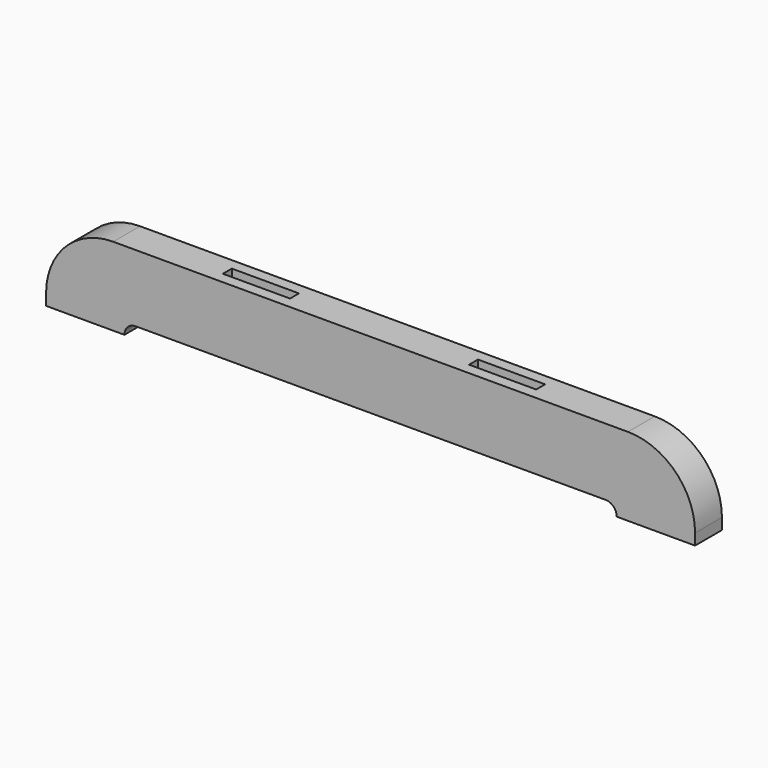
from build123d import *

# Parameters (mm, degrees)
F1_DEPTH = 38.1
F2_W     = 76.2
F2_H     = 12.7
F3_DEPTH = 50.8


with BuildPart() as f1:
    # F0 (on Front) → F1 (new body)
    with BuildSketch(Plane.XZ):
        with BuildLine():
            Line((-368.3, 12.7), (-368.3, 0))
            Line((-368.3, 0), (-279.4, 0))
            ThreePointArc((-279.4, 0), (-275.680256, 8.980256), (-266.7, 12.7))
            Line((-266.7, 12.7), (266.7, 12.7))
            ThreePointArc((266.7, 12.7), (275.680256, 8.980256), (279.4, 0))
            Line((279.4, 0), (368.3, 0))
            Line((368.3, 0), (368.3, 12.7))
            ThreePointArc((368.3, 12.7), (345.981537, 66.581537), (292.1, 88.9))
            Line((292.1, 88.9), (-292.1, 88.9))
            ThreePointArc((-292.1, 88.9), (-345.981537, 66.581537), (-368.3, 12.7))
        make_face()
    extrude(amount=F1_DEPTH)

    # F2 (on face) → F3 (cut)
    with BuildSketch(Plane.XY.offset(88.9)):
        with Locations((-139.7, -19.05)):
            Rectangle(F2_W, F2_H)
        with Locations((139.7, -19.05)):
            Rectangle(F2_W, F2_H)
    extrude(amount=-F3_DEPTH, mode=Mode.SUBTRACT)


solid = f1.part
